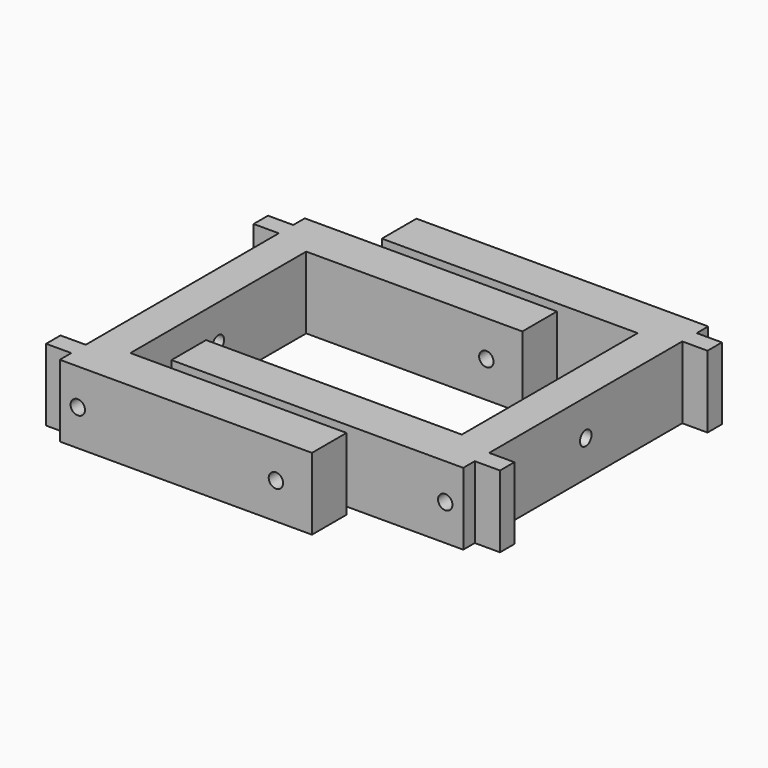
from build123d import *

# Parameters (mm, degrees)
PAD_DEPTH       = 20
SKETCH004_R     = 2
POCKET002_DEPTH = 70.001
SKETCH005_R     = 2
POCKET003_DEPTH = 85.001
PAD001_DEPTH    = 20
SKETCH007_R     = 2
POCKET004_DEPTH = 81.001
SKETCH008_R     = 2
POCKET005_DEPTH = 85.001


with BuildPart() as soporte_agujero_superior_lateral:
    # Sketch → Pad (new body)
    with BuildSketch(Plane.XY):
        Polygon((-10, -42.5), (60, -42.5), (60, -30.5), (0, -30.5), (0, 30.5), (60, 30.5), (60, 42.5), (-10, 42.5), (-10, 38.5), (-17, 38.5), (-17, 33.5), (-10, 33.5), (-10, -33.5), (-17, -33.5), (-17, -38.5), (-10, -38.5), align=None)
    extrude(amount=PAD_DEPTH)

    # Sketch004 → Pocket002 (cut, through all)
    with BuildSketch(Plane(origin=(-10, 0, 0), x_dir=(0, -1, 0), z_dir=(-1, 0, 0))):
        with Locations((0, 10)):
            Circle(SKETCH004_R)
    extrude(amount=-POCKET002_DEPTH, mode=Mode.SUBTRACT)

    # Sketch005 → Pocket003 (cut, through all)
    with BuildSketch(Plane.XZ.offset(42.5)):
        with Locations((-5, 10)):
            Circle(SKETCH005_R)
        with Locations((50, 10)):
            Circle(SKETCH005_R)
    extrude(amount=-POCKET003_DEPTH, mode=Mode.SUBTRACT)


with BuildPart() as soporte_agujero_superior_lateral001:
    # Sketch006 → Pad001 (new body)
    with BuildSketch(Plane(origin=(80, 15, 0), x_dir=(-1, 0, 0), z_dir=(0, 0, 1))):
        Polygon((-10, -42.5), (71, -42.5), (71, -30.5), (0, -30.5), (0, 30.5), (71, 30.5), (71, 42.5), (-10, 42.5), (-10, 38.5), (-17, 38.5), (-17, 33.5), (-10, 33.5), (-10, -33.5), (-17, -33.5), (-17, -38.5), (-10, -38.5), align=None)
    extrude(amount=PAD001_DEPTH)

    # Sketch007 → Pocket004 (cut, through all)
    with BuildSketch(Plane(origin=(90, 15, 0), x_dir=(0, 1, 0), z_dir=(1, 0, 0))):
        with Locations((0, 10)):
            Circle(SKETCH007_R)
    extrude(amount=-POCKET004_DEPTH, mode=Mode.SUBTRACT)

    # Sketch008 → Pocket005 (cut, through all)
    with BuildSketch(Plane(origin=(80, 57.5, 0), x_dir=(-1, 0, 0), z_dir=(0, 1, 0))):
        with Locations((-5, 10)):
            Circle(SKETCH008_R)
        with Locations((61, 10)):
            Circle(SKETCH008_R)
    extrude(amount=-POCKET005_DEPTH, mode=Mode.SUBTRACT)


solid = Compound([soporte_agujero_superior_lateral.part, soporte_agujero_superior_lateral001.part])
